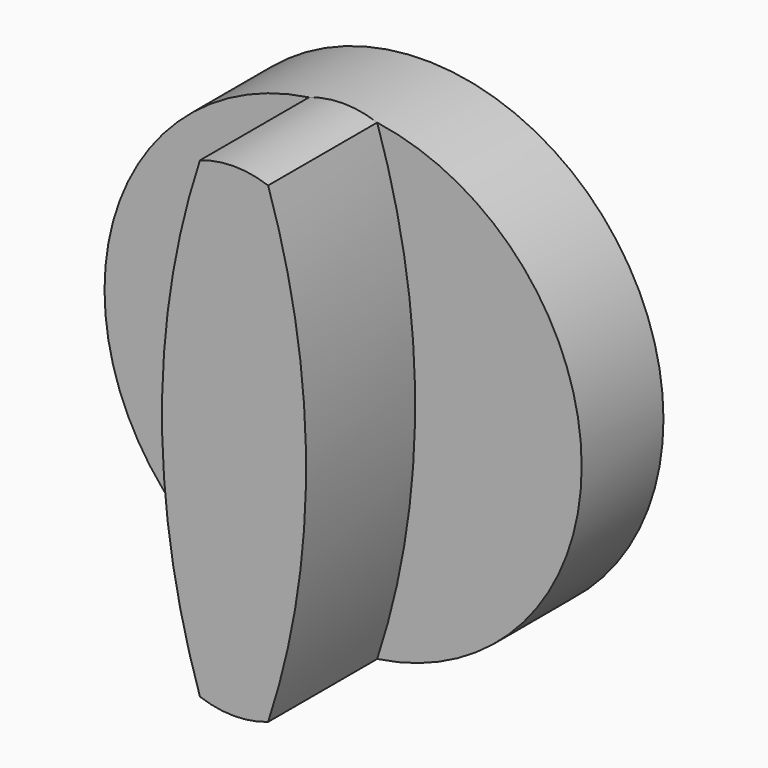
from build123d import *

# Parameters (mm, degrees)
F0_R     = 22.225
F1_DEPTH = 9.525
F3_DEPTH = 12.7


with BuildPart() as f1:
    # F0 (on Front) → F1 (new body)
    with BuildSketch(Plane.XZ):
        Circle(F0_R)
    extrude(amount=F1_DEPTH)

    # F2 (on face) → F3 (join)
    with BuildSketch(Plane.XZ.offset(9.525)):
        with BuildLine():
            ThreePointArc((3.175, 21.997045), (0, 22.541789), (-3.175, 21.997045))
            ThreePointArc((-3.175, 21.997045), (-6.709868, 0), (-3.175, -21.997045))
            ThreePointArc((-3.175, -21.997045), (0, -22.541789), (3.175, -21.997045))
            ThreePointArc((3.175, -21.997045), (6.709868, 0), (3.175, 21.997045))
        make_face()
    extrude(amount=F3_DEPTH)


solid = f1.part
